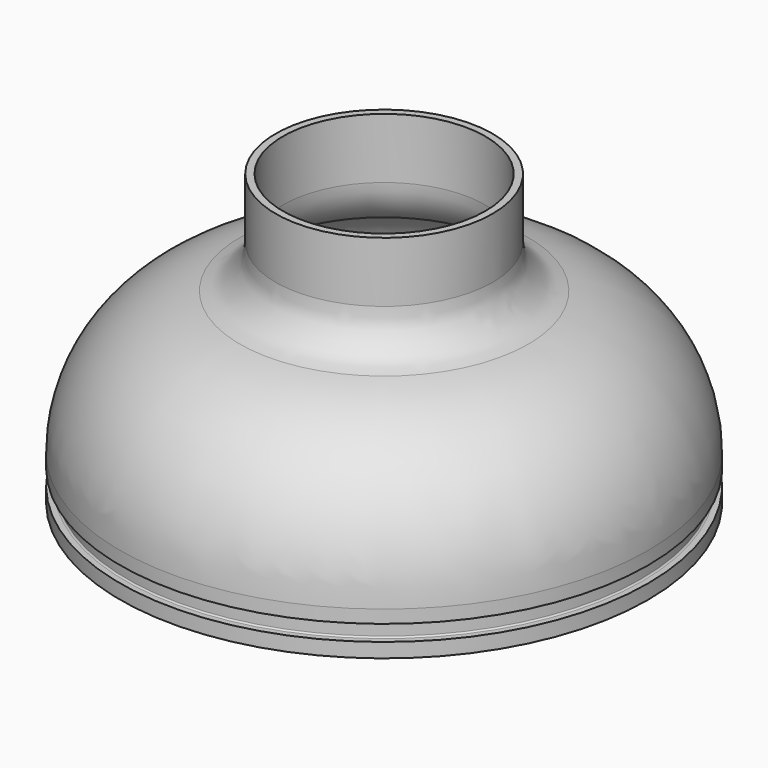
from build123d import *

# Parameters (mm, degrees)
F2_R = 7.62
F4_W = 1.27
F4_H = 2.794
F6_R = 0.254
F7_T = -1.27


with BuildPart() as f1:
    # F0 (on Front) → F1 (revolve)
    with BuildSketch(Plane.XZ):
        with BuildLine():
            Line((0, 50.8), (0, 0))
            Line((0, 0), (46.355, 0))
            Line((46.355, 0), (46.355, 7.62))
            ThreePointArc((46.355, 7.62), (38.233848, 26.2662), (19.05, 33.02))
            Line((19.05, 33.02), (19.05, 50.8))
            Line((19.05, 50.8), (0, 50.8))
        make_face()
    revolve(axis=Axis((0, 0, 25.4), (0, 0, -1)))

    # F2
    f2_edges = [f1.edges().sort_by_distance(p)[0] for p in [
        (-19.05, 0, 33.02),
    ]]
    fillet(f2_edges, radius=F2_R)

    # F4 (on Front) → F5 (revolve, cut)
    with BuildSketch(Plane.XZ):
        with Locations((45.72, 3.937)):
            Rectangle(F4_W, F4_H)
    revolve(axis=Axis((0, 0, 25.4), (0, 0, -1)), mode=Mode.SUBTRACT)

    # F6
    f6_edges = [f1.edges().sort_by_distance(p)[0] for p in [
        (-45.085, 0, 5.334),
        (-45.085, 0, 2.54),
        (45.085, 0, 3.937),
    ]]
    fillet(f6_edges, radius=F6_R)

    # F7
    f7_openings = [f1.faces().sort_by_distance(p)[0] for p in [
        (0, 0, 0),
        (0, 0, 50.8),
    ]]
    offset(amount=F7_T, openings=f7_openings)


solid = f1.part
